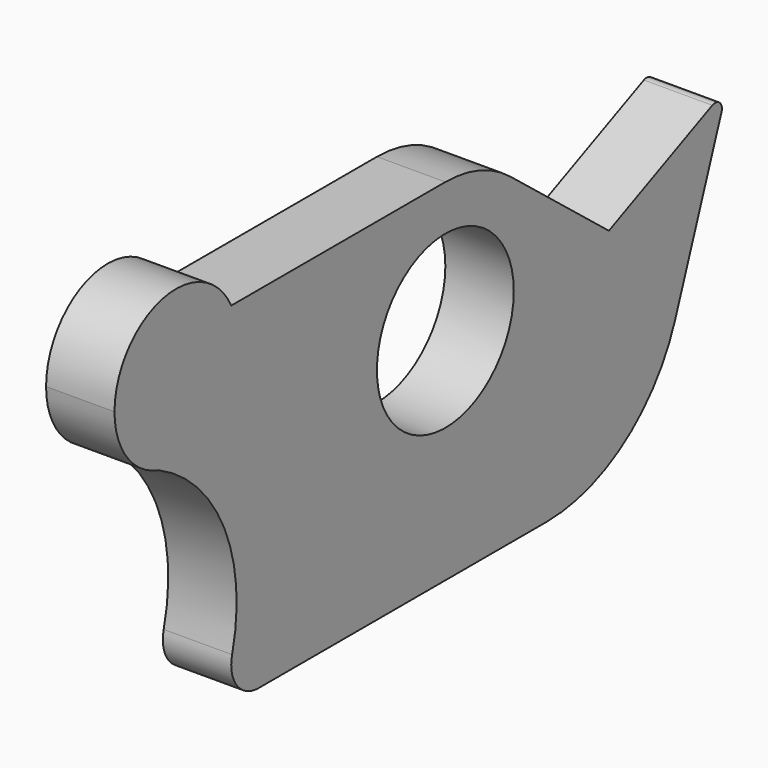
from build123d import *

# Parameters (mm, degrees)
F0_R     = 5
F1_DEPTH = 4


with BuildPart() as f1:
    # F0 (on Right) → F1 (new body)
    with BuildSketch(Plane.YZ):
        with BuildLine():
            Line((-32.470462, 0), (-11.42762, 0))
            ThreePointArc((-11.42762, 0), (-5.691618, 1.808646), (-2.030496, 6.580344))
            Line((-2.030496, 6.580344), (0, 12.160091))
            Line((0, 12.160091), (1.357265, 15.88982))
            ThreePointArc((1.357265, 15.88982), (1.227999, 16.42686), (0.683047, 16.517132))
            Line((0.683047, 16.517132), (-6.873841, 13.132861))
            Line((-6.873841, 13.132861), (-11.745187, 17))
            Line((-11.745187, 17), (-14.06338, 18.840308))
            ThreePointArc((-14.06338, 18.840308), (-16.302877, 20.073179), (-18.823421, 20.5))
            Line((-18.823421, 20.5), (-34.468871, 20.5))
            ThreePointArc((-34.468871, 20.5), (-39.527112, 22.881214), (-43, 18.5))
            ThreePointArc((-43, 18.5), (-42.106403, 15.808558), (-39.780507, 14.186034))
            ThreePointArc((-39.780507, 14.186034), (-35.001825, 9.308972), (-34.405107, 2.507099))
            ThreePointArc((-34.405107, 2.507099), (-34.053845, 0.778157), (-32.470462, 0))
        make_face()
        with Locations((-18.823421, 12.844194)):
            Circle(F0_R, mode=Mode.SUBTRACT)
    extrude(amount=F1_DEPTH)


solid = f1.part
